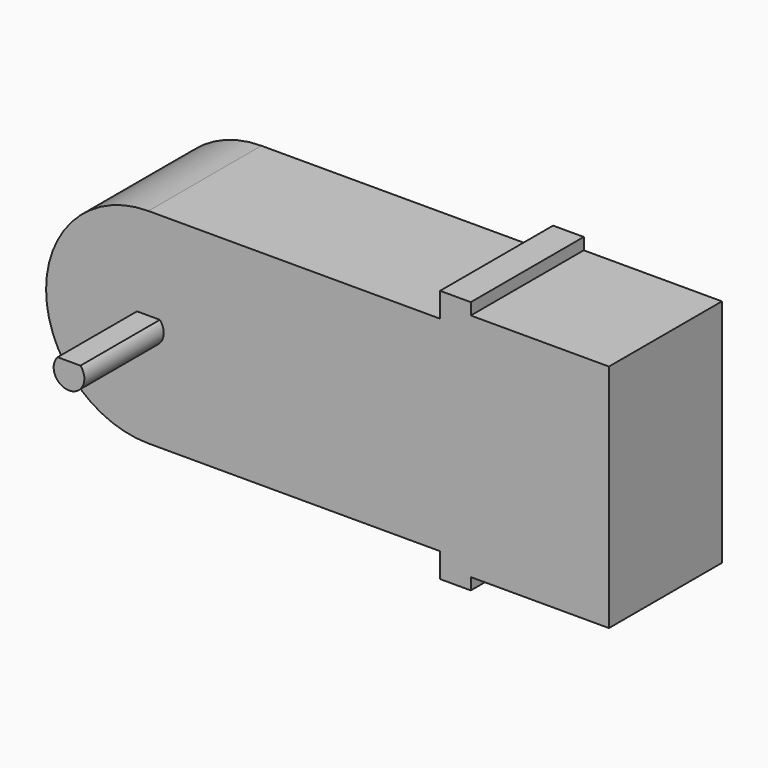
from build123d import *

# Parameters (mm, degrees)
PAD_DEPTH              = 13.8
BOX002_W               = 3
BOX002_H               = 10
BOX002_DEPTH           = 3
CYLINDER001_R          = 1.5
CYLINDER001_DEPTH      = 9.7
CYLINDER001_ROLL_ANGLE = 90


with BuildPart() as motorbody:
    # Sketch → Pad (new body)
    with BuildSketch(Plane.XZ):
        with BuildLine():
            Line((-45, 21.25), (-16.5, 21.25))
            Line((-16.5, 21.25), (-16.5, 23.65))
            Line((-16.5, 23.65), (-13.5, 23.65))
            Line((-13.5, 23.65), (-13.5, 22.5))
            Line((-13.5, 22.5), (0, 22.5))
            Line((0, 22.5), (0, 0))
            Line((-13.5, 0), (0, 0))
            Line((-13.5, -1.15), (-13.5, 0))
            Line((-13.5, -1.15), (-16.5, -1.15))
            Line((-16.5, -1.15), (-16.5, 1.25))
            Line((-16.5, 1.25), (-44.999948, 1.25))
            ThreePointArc((-45, 21.25), (-54.999971, 11.249974), (-44.999948, 1.25))
        make_face()
    extrude(amount=PAD_DEPTH)


with BuildPart() as cube001:
    # Box002 → Box002 (new body)
    with BuildSketch(Plane(origin=(-46.5, -23.7, 12.25), x_dir=(1, 0, 0), z_dir=(0, 0, 1))):
        with Locations((1.5, 5)):
            Rectangle(BOX002_W, BOX002_H)
    extrude(amount=BOX002_DEPTH)


with BuildPart() as motor:
    # Cylinder001 → Cylinder001 (new body)
    with BuildSketch(Plane.XY):
        Circle(CYLINDER001_R)
    extrude(amount=CYLINDER001_DEPTH)


with BuildPart() as motor_1:
    # Cylinder001 roll: moved
    add(motor.part.rotate(Axis((0, 0, 0), (1, 0, 0)), CYLINDER001_ROLL_ANGLE))


with BuildPart() as motor_2:
    # Cylinder001 placement: moved
    add(motor_1.part.moved(Location((-45, -13.8, 11.25))))

    # Cut: cut Cube001
    add(cube001.part, mode=Mode.SUBTRACT)

    # Fusion001: union motorBody
    add(motorbody.part)


with BuildPart() as motor_3:
    # Fusion001 placement: moved
    add(motor_2.part.moved(Location((34.1, -23.1, -1.5))))


solid = motor_3.part
